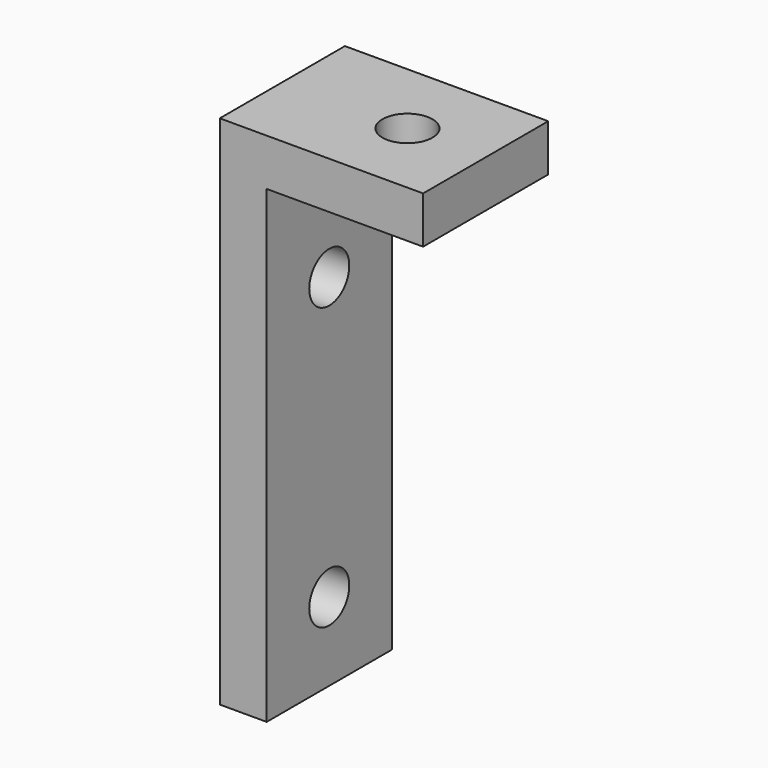
from build123d import *

# Parameters (mm, degrees)
F1_DEPTH = 12.7
F3_D     = 4.064
F5_D     = 4.064


with BuildPart() as f1:
    # F0 (on Front) → F1 (new body)
    with BuildSketch(Plane.XZ):
        Polygon((0, 41.91), (0, 0), (3.81, 0), (3.81, 38.1), (16.51, 38.1), (16.51, 41.91), align=None)
    extrude(amount=F1_DEPTH)

    # F3 (through all)
    with Locations(Plane(origin=(0, 0, 38.1), x_dir=(1, 0, 0), z_dir=(0, 0, -1))):
        with Locations((10.16, 6.35)):
            Hole(F3_D / 2)

    # F5 (through all)
    with Locations(Plane.YZ.offset(3.81)):
        with Locations((-6.35, 29.21), (-6.35, 6.35)):
            Hole(F5_D / 2)


solid = f1.part
